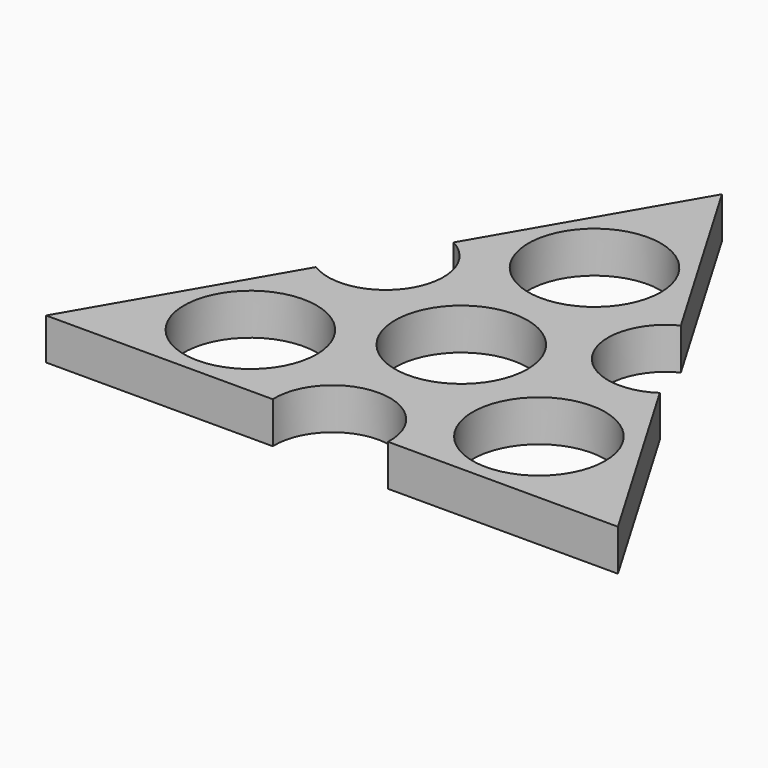
from build123d import *

# Parameters (mm, degrees)
F0_R     = 11.2
F1_DEPTH = 7


with BuildPart() as f1:
    # F0 (on Top) → F1 (new body)
    with BuildSketch(Plane.XY):
        with BuildLine():
            Line((19.215132, 22.378807), (0, 55.077419))
            Line((0, 55.077419), (-19.066227, 22.201317))
            ThreePointArc((-19.066227, 22.201317), (-15.219751, 8.713844), (-28.836632, 5.354102))
            Line((-28.836632, 5.354102), (-48.016034, -27.717147))
            Line((-48.016034, -27.717147), (-9.689672, -27.717147))
            ThreePointArc((-9.689672, -27.717147), (0.044547, -17.537595), (9.778766, -27.717147))
            Line((9.778766, -27.717147), (48.653703, -27.717147))
            Line((48.653703, -27.717147), (29.068287, 5.61158))
            ThreePointArc((29.068287, 5.61158), (15.203422, 8.742665), (19.215132, 22.378807))
        make_face()
        with Locations((-24.390228, -14.081704)):
            Circle(F0_R, mode=Mode.SUBTRACT)
        Circle(F0_R, mode=Mode.SUBTRACT)
        with Locations((24.390229, -14.081704)):
            Circle(F0_R, mode=Mode.SUBTRACT)
        with Locations((0, 28.163411)):
            Circle(F0_R, mode=Mode.SUBTRACT)
    extrude(amount=F1_DEPTH)


solid = f1.part
